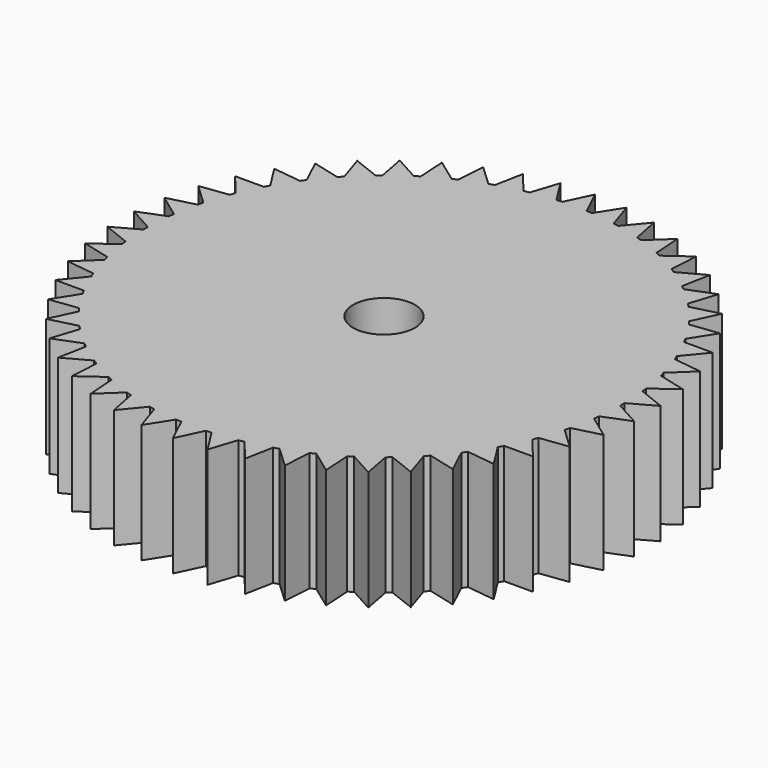
from build123d import *

# Parameters (mm, degrees)
F0_R     = 3.302
F1_DEPTH = 12.7


with BuildPart() as f1:
    # F0 (on Top) → F1 (new body)
    with BuildSketch(Plane.XY):
        with BuildLine():
            Line((23.74411, -15.06847), (22.115968, -12.491756))
            ThreePointArc((22.115968, -12.491756), (21.445929, -13.610001), (20.7194, -14.692395))
            Line((20.7194, -14.692395), (23.74411, -15.06847))
        make_face()
        with BuildLine():
            Line((19.250769, -20.499987), (18.31458, -17.599322))
            ThreePointArc((18.31458, -17.599322), (17.387496, -18.515803), (16.414612, -19.383511))
            Line((16.414612, -19.383511), (19.250769, -20.499987))
        make_face()
        with BuildLine():
            Line((-26.745521, -8.690147), (-23.722312, -9.078101))
            ThreePointArc((-23.722312, -9.078101), (-24.156836, -7.849032), (-24.527727, -6.599287))
            Line((-24.527727, -6.599287), (-26.745521, -8.690147))
        make_face()
        with BuildLine():
            Line((21.668301, -17.925577), (20.375945, -15.165121))
            ThreePointArc((20.375945, -15.165121), (19.571036, -16.190569), (18.714576, -17.17337))
            Line((18.714576, -17.17337), (21.668301, -17.925577))
        make_face()
        with BuildLine():
            Line((-25.445461, -11.973725), (-22.397467, -11.979711))
            ThreePointArc((-22.397467, -11.979711), (-22.982607, -10.814794), (-23.507209, -9.621389))
            Line((-23.507209, -9.621389), (-25.445461, -11.973725))
        make_face()
        with BuildLine():
            ThreePointArc((-15.964385, 19.755972), (-14.929745, 20.549032), (-13.85578, 21.287963))
            Line((-13.85578, 21.287963), (-16.529641, 22.751099))
            Line((-16.529641, 22.751099), (-15.964385, 19.755972))
        make_face()
        with BuildLine():
            Line((-13.547831, -24.643414), (-11.078433, -22.856691))
            ThreePointArc((-11.078433, -22.856691), (-12.236543, -22.25819), (-13.362421, -21.601058))
            Line((-13.362421, -21.601058), (-13.547831, -24.643414))
        make_face()
        with BuildLine():
            ThreePointArc((25.39832, -0.292161), (25.39958, -0.146083), (25.4, 0))
            ThreePointArc((25.4, 0), (25.39958, 0.146083), (25.39832, 0.292161))
            ThreePointArc((25.39832, 0.292161), (25.349879, 1.594879), (25.234664, 2.893397))
            ThreePointArc((25.234664, 2.893397), (25.199713, 3.183464), (25.161429, 3.47311))
            ThreePointArc((25.161429, 3.47311), (24.950096, 4.759485), (24.673042, 6.033323))
            ThreePointArc((24.673042, 6.033323), (24.602012, 6.316723), (24.527727, 6.599287))
            ThreePointArc((24.527727, 6.599287), (24.156836, 7.849032), (23.722312, 9.078101))
            ThreePointArc((23.722312, 9.078101), (23.616323, 9.350364), (23.507209, 9.621389))
            ThreePointArc((23.507209, 9.621389), (22.982607, 10.814794), (22.397467, 11.979711))
            ThreePointArc((22.397467, 11.979711), (22.25819, 12.236543), (22.115968, 12.491756))
            ThreePointArc((22.115968, 12.491756), (21.445929, 13.610001), (20.7194, 14.692395))
            ThreePointArc((20.7194, 14.692395), (20.549032, 14.929745), (20.375945, 15.165121))
            ThreePointArc((20.375945, 15.165121), (19.571036, 16.190569), (18.714576, 17.17337))
            ThreePointArc((18.714576, 17.17337), (18.515803, 17.387496), (18.31458, 17.599322))
            ThreePointArc((18.31458, 17.599322), (17.387496, 18.515803), (16.414612, 19.383511))
            ThreePointArc((16.414612, 19.383511), (16.190569, 19.571036), (15.964385, 19.755972))
            ThreePointArc((15.964385, 19.755972), (14.929745, 20.549032), (13.85578, 21.287963))
            ThreePointArc((13.85578, 21.287963), (13.610001, 21.445929), (13.362421, 21.601058))
            ThreePointArc((13.362421, 21.601058), (12.236543, 22.25819), (11.078433, 22.856691))
            ThreePointArc((11.078433, 22.856691), (10.814794, 22.982607), (10.549724, 23.105483))
            ThreePointArc((10.549724, 23.105483), (9.350364, 23.616323), (8.126374, 24.064955))
            ThreePointArc((8.126374, 24.064955), (7.849032, 24.156836), (7.570651, 24.24552))
            ThreePointArc((7.570651, 24.24552), (6.316723, 24.602012), (5.046156, 24.8937))
            ThreePointArc((5.046156, 24.8937), (4.759485, 24.950096), (4.472185, 25.003191))
            ThreePointArc((4.472185, 25.003191), (3.183464, 25.199713), (1.886358, 25.329857))
            ThreePointArc((1.886358, 25.329857), (1.594879, 25.349879), (1.30319, 25.366547))
            ThreePointArc((1.30319, 25.366547), (0, 25.4), (-1.30319, 25.366547))
            ThreePointArc((-1.30319, 25.366547), (-1.594879, 25.349879), (-1.886358, 25.329857))
            ThreePointArc((-1.886358, 25.329857), (-3.183464, 25.199713), (-4.472185, 25.003191))
            ThreePointArc((-4.472185, 25.003191), (-4.759485, 24.950096), (-5.046156, 24.8937))
            ThreePointArc((-5.046156, 24.8937), (-6.316723, 24.602012), (-7.570651, 24.24552))
            ThreePointArc((-7.570651, 24.24552), (-7.849032, 24.156836), (-8.126374, 24.064955))
            ThreePointArc((-8.126374, 24.064955), (-9.350364, 23.616323), (-10.549724, 23.105483))
            ThreePointArc((-10.549724, 23.105483), (-10.814794, 22.982607), (-11.078433, 22.856691))
            ThreePointArc((-11.078433, 22.856691), (-12.236543, 22.25819), (-13.362421, 21.601058))
            ThreePointArc((-13.362421, 21.601058), (-13.610001, 21.445929), (-13.85578, 21.287963))
            ThreePointArc((-13.85578, 21.287963), (-14.929745, 20.549032), (-15.964385, 19.755972))
            ThreePointArc((-15.964385, 19.755972), (-16.190569, 19.571036), (-16.414612, 19.383511))
            ThreePointArc((-16.414612, 19.383511), (-17.387496, 18.515803), (-18.31458, 17.599322))
            ThreePointArc((-18.31458, 17.599322), (-18.515803, 17.387496), (-18.714576, 17.17337))
            ThreePointArc((-18.714576, 17.17337), (-19.571036, 16.190569), (-20.375945, 15.165121))
            ThreePointArc((-20.375945, 15.165121), (-20.549032, 14.929745), (-20.7194, 14.692395))
            ThreePointArc((-20.7194, 14.692395), (-21.445929, 13.610001), (-22.115968, 12.491756))
            ThreePointArc((-22.115968, 12.491756), (-22.25819, 12.236543), (-22.397467, 11.979711))
            ThreePointArc((-22.397467, 11.979711), (-22.982607, 10.814794), (-23.507209, 9.621389))
            ThreePointArc((-23.507209, 9.621389), (-23.616323, 9.350364), (-23.722312, 9.078101))
            ThreePointArc((-23.722312, 9.078101), (-24.156836, 7.849032), (-24.527727, 6.599287))
            ThreePointArc((-24.527727, 6.599287), (-24.602012, 6.316723), (-24.673042, 6.033323))
            ThreePointArc((-24.673042, 6.033323), (-24.950096, 4.759485), (-25.161429, 3.47311))
            ThreePointArc((-25.161429, 3.47311), (-25.199713, 3.183464), (-25.234664, 2.893397))
            ThreePointArc((-25.234664, 2.893397), (-25.349879, 1.594879), (-25.39832, 0.292161))
            ThreePointArc((-25.39832, 0.292161), (-25.4, 0), (-25.39832, -0.292161))
            ThreePointArc((-25.39832, -0.292161), (-25.349879, -1.594879), (-25.234664, -2.893397))
            ThreePointArc((-25.234664, -2.893397), (-25.199713, -3.183464), (-25.161429, -3.47311))
            ThreePointArc((-25.161429, -3.47311), (-24.950096, -4.759485), (-24.673042, -6.033323))
            ThreePointArc((-24.673042, -6.033323), (-24.602012, -6.316723), (-24.527727, -6.599287))
            ThreePointArc((-24.527727, -6.599287), (-24.156836, -7.849032), (-23.722312, -9.078101))
            ThreePointArc((-23.722312, -9.078101), (-23.616323, -9.350364), (-23.507209, -9.621389))
            ThreePointArc((-23.507209, -9.621389), (-22.982607, -10.814794), (-22.397467, -11.979711))
            ThreePointArc((-22.397467, -11.979711), (-22.25819, -12.236543), (-22.115968, -12.491756))
            ThreePointArc((-22.115968, -12.491756), (-21.445929, -13.610001), (-20.7194, -14.692395))
            ThreePointArc((-20.7194, -14.692395), (-20.549032, -14.929745), (-20.375945, -15.165121))
            ThreePointArc((-20.375945, -15.165121), (-19.571036, -16.190569), (-18.714576, -17.17337))
            ThreePointArc((-18.714576, -17.17337), (-18.515803, -17.387496), (-18.31458, -17.599322))
            ThreePointArc((-18.31458, -17.599322), (-17.387496, -18.515803), (-16.414612, -19.383511))
            ThreePointArc((-16.414612, -19.383511), (-16.190569, -19.571036), (-15.964385, -19.755972))
            ThreePointArc((-15.964385, -19.755972), (-14.929745, -20.549032), (-13.85578, -21.287963))
            ThreePointArc((-13.85578, -21.287963), (-13.610001, -21.445929), (-13.362421, -21.601058))
            ThreePointArc((-13.362421, -21.601058), (-12.236543, -22.25819), (-11.078433, -22.856691))
            ThreePointArc((-11.078433, -22.856691), (-10.814794, -22.982607), (-10.549724, -23.105483))
            ThreePointArc((-10.549724, -23.105483), (-9.350364, -23.616323), (-8.126374, -24.064955))
            ThreePointArc((-8.126374, -24.064955), (-7.849032, -24.156836), (-7.570651, -24.24552))
            ThreePointArc((-7.570651, -24.24552), (-6.316723, -24.602012), (-5.046156, -24.8937))
            ThreePointArc((-5.046156, -24.8937), (-4.759485, -24.950096), (-4.472185, -25.003191))
            ThreePointArc((-4.472185, -25.003191), (-3.183464, -25.199713), (-1.886358, -25.329857))
            ThreePointArc((-1.886358, -25.329857), (-1.594879, -25.349879), (-1.30319, -25.366547))
            ThreePointArc((-1.30319, -25.366547), (0, -25.4), (1.30319, -25.366547))
            ThreePointArc((1.30319, -25.366547), (1.594879, -25.349879), (1.886358, -25.329857))
            ThreePointArc((1.886358, -25.329857), (3.183464, -25.199713), (4.472185, -25.003191))
            ThreePointArc((4.472185, -25.003191), (4.759485, -24.950096), (5.046156, -24.8937))
            ThreePointArc((5.046156, -24.8937), (6.316723, -24.602012), (7.570651, -24.24552))
            ThreePointArc((7.570651, -24.24552), (7.849032, -24.156836), (8.126374, -24.064955))
            ThreePointArc((8.126374, -24.064955), (9.350364, -23.616323), (10.549724, -23.105483))
            ThreePointArc((10.549724, -23.105483), (10.814794, -22.982607), (11.078433, -22.856691))
            ThreePointArc((11.078433, -22.856691), (12.236543, -22.25819), (13.362421, -21.601058))
            ThreePointArc((13.362421, -21.601058), (13.610001, -21.445929), (13.85578, -21.287963))
            ThreePointArc((13.85578, -21.287963), (14.929745, -20.549032), (15.964385, -19.755972))
            ThreePointArc((15.964385, -19.755972), (16.190569, -19.571036), (16.414612, -19.383511))
            ThreePointArc((16.414612, -19.383511), (17.387496, -18.515803), (18.31458, -17.599322))
            ThreePointArc((18.31458, -17.599322), (18.515803, -17.387496), (18.714576, -17.17337))
            ThreePointArc((18.714576, -17.17337), (19.571036, -16.190569), (20.375945, -15.165121))
            ThreePointArc((20.375945, -15.165121), (20.549032, -14.929745), (20.7194, -14.692395))
            ThreePointArc((20.7194, -14.692395), (21.445929, -13.610001), (22.115968, -12.491756))
            ThreePointArc((22.115968, -12.491756), (22.25819, -12.236543), (22.397467, -11.979711))
            ThreePointArc((22.397467, -11.979711), (22.982607, -10.814794), (23.507209, -9.621389))
            ThreePointArc((23.507209, -9.621389), (23.616323, -9.350364), (23.722312, -9.078101))
            ThreePointArc((23.722312, -9.078101), (24.156836, -7.849032), (24.527727, -6.599287))
            ThreePointArc((24.527727, -6.599287), (24.602012, -6.316723), (24.673042, -6.033323))
            ThreePointArc((24.673042, -6.033323), (24.950096, -4.759485), (25.161429, -3.47311))
            ThreePointArc((25.161429, -3.47311), (25.199713, -3.183464), (25.234664, -2.893397))
            ThreePointArc((25.234664, -2.893397), (25.349879, -1.594879), (25.39832, -0.292161))
        make_face()
        Circle(F0_R, mode=Mode.SUBTRACT)
        with BuildLine():
            Line((-6.993633, -27.238404), (-5.046156, -24.8937))
            ThreePointArc((-5.046156, -24.8937), (-6.316723, -24.602012), (-7.570651, -24.24552))
            Line((-7.570651, -24.24552), (-6.993633, -27.238404))
        make_face()
        with BuildLine():
            Line((-3.524609, -27.900156), (-1.886358, -25.329857))
            ThreePointArc((-1.886358, -25.329857), (-3.183464, -25.199713), (-4.472185, -25.003191))
            Line((-4.472185, -25.003191), (-3.524609, -27.900156))
        make_face()
        with BuildLine():
            ThreePointArc((-23.507209, 9.621389), (-22.982607, 10.814794), (-22.397467, 11.979711))
            Line((-22.397467, 11.979711), (-25.445461, 11.973725))
            Line((-25.445461, 11.973725), (-23.507209, 9.621389))
        make_face()
        with BuildLine():
            Line((3.524609, -27.900156), (4.472185, -25.003191))
            ThreePointArc((4.472185, -25.003191), (3.183464, -25.199713), (1.886358, -25.329857))
            Line((1.886358, -25.329857), (3.524609, -27.900156))
        make_face()
        with BuildLine():
            ThreePointArc((-24.527727, 6.599287), (-24.156836, 7.849032), (-23.722312, 9.078101))
            Line((-23.722312, 9.078101), (-26.745521, 8.690147))
            Line((-26.745521, 8.690147), (-24.527727, 6.599287))
        make_face()
        with BuildLine():
            ThreePointArc((-10.549724, 23.105483), (-9.350364, 23.616323), (-8.126374, 24.064955))
            Line((-8.126374, 24.064955), (-10.352364, 26.147086))
            Line((-10.352364, 26.147086), (-10.549724, 23.105483))
        make_face()
        with BuildLine():
            ThreePointArc((20.7194, 14.692395), (21.445929, 13.610001), (22.115968, 12.491756))
            Line((22.115968, 12.491756), (23.74411, 15.06847))
            Line((23.74411, 15.06847), (20.7194, 14.692395))
        make_face()
        with BuildLine():
            ThreePointArc((18.714576, 17.17337), (19.571036, 16.190569), (20.375945, 15.165121))
            Line((20.375945, 15.165121), (21.668301, 17.925577))
            Line((21.668301, 17.925577), (18.714576, 17.17337))
        make_face()
        with BuildLine():
            ThreePointArc((13.85578, 21.287963), (14.929745, 20.549032), (15.964385, 19.755972))
            Line((15.964385, 19.755972), (16.529641, 22.751099))
            Line((16.529641, 22.751099), (13.85578, 21.287963))
        make_face()
        with BuildLine():
            ThreePointArc((8.126374, 24.064955), (9.350364, 23.616323), (10.549724, 23.105483))
            Line((10.549724, 23.105483), (10.352364, 26.147086))
            Line((10.352364, 26.147086), (8.126374, 24.064955))
        make_face()
        with BuildLine():
            Line((6.993633, -27.238404), (7.570651, -24.24552))
            ThreePointArc((7.570651, -24.24552), (6.316723, -24.602012), (5.046156, -24.8937))
            Line((5.046156, -24.8937), (6.993633, -27.238404))
        make_face()
        with BuildLine():
            Line((-19.250769, -20.499987), (-16.414612, -19.383511))
            ThreePointArc((-16.414612, -19.383511), (-17.387496, -18.515803), (-18.31458, -17.599322))
            Line((-18.31458, -17.599322), (-19.250769, -20.499987))
        make_face()
        with BuildLine():
            Line((13.547831, -24.643414), (13.362421, -21.601058))
            ThreePointArc((13.362421, -21.601058), (12.236543, -22.25819), (11.078433, -22.856691))
            Line((11.078433, -22.856691), (13.547831, -24.643414))
        make_face()
        with BuildLine():
            Line((16.529641, -22.751099), (15.964385, -19.755972))
            ThreePointArc((15.964385, -19.755972), (14.929745, -20.549032), (13.85578, -21.287963))
            Line((13.85578, -21.287963), (16.529641, -22.751099))
        make_face()
        with BuildLine():
            Line((-27.623789, -5.26952), (-24.673042, -6.033323))
            ThreePointArc((-24.673042, -6.033323), (-24.950096, -4.759485), (-25.161429, -3.47311))
            Line((-25.161429, -3.47311), (-27.623789, -5.26952))
        make_face()
        with BuildLine():
            Line((-23.74411, -15.06847), (-20.7194, -14.692395))
            ThreePointArc((-20.7194, -14.692395), (-21.445929, -13.610001), (-22.115968, -12.491756))
            Line((-22.115968, -12.491756), (-23.74411, -15.06847))
        make_face()
        with BuildLine():
            Line((25.445461, -11.973725), (23.507209, -9.621389))
            ThreePointArc((23.507209, -9.621389), (22.982607, -10.814794), (22.397467, -11.979711))
            Line((22.397467, -11.979711), (25.445461, -11.973725))
        make_face()
        with BuildLine():
            Line((-21.668301, -17.925577), (-18.714576, -17.17337))
            ThreePointArc((-18.714576, -17.17337), (-19.571036, -16.190569), (-20.375945, -15.165121))
            Line((-20.375945, -15.165121), (-21.668301, -17.925577))
        make_face()
        with BuildLine():
            ThreePointArc((-13.362421, 21.601058), (-12.236543, 22.25819), (-11.078433, 22.856691))
            Line((-11.078433, 22.856691), (-13.547831, 24.643414))
            Line((-13.547831, 24.643414), (-13.362421, 21.601058))
        make_face()
        with BuildLine():
            Line((27.623789, -5.26952), (25.161429, -3.47311))
            ThreePointArc((25.161429, -3.47311), (24.950096, -4.759485), (24.673042, -6.033323))
            Line((24.673042, -6.033323), (27.623789, -5.26952))
        make_face()
        with BuildLine():
            Line((-16.529641, -22.751099), (-13.85578, -21.287963))
            ThreePointArc((-13.85578, -21.287963), (-14.929745, -20.549032), (-15.964385, -19.755972))
            Line((-15.964385, -19.755972), (-16.529641, -22.751099))
        make_face()
        with BuildLine():
            Line((28.066413, -1.765789), (25.39832, -0.292161))
            ThreePointArc((25.39832, -0.292161), (25.349879, -1.594879), (25.234664, -2.893397))
            Line((25.234664, -2.893397), (28.066413, -1.765789))
        make_face()
        with BuildLine():
            ThreePointArc((-18.31458, 17.599322), (-17.387496, 18.515803), (-16.414612, 19.383511))
            Line((-16.414612, 19.383511), (-19.250769, 20.499987))
            Line((-19.250769, 20.499987), (-18.31458, 17.599322))
        make_face()
        with BuildLine():
            Line((-10.352364, -26.147086), (-8.126374, -24.064955))
            ThreePointArc((-8.126374, -24.064955), (-9.350364, -23.616323), (-10.549724, -23.105483))
            Line((-10.549724, -23.105483), (-10.352364, -26.147086))
        make_face()
        with BuildLine():
            ThreePointArc((-20.375945, 15.165121), (-19.571036, 16.190569), (-18.714576, 17.17337))
            Line((-18.714576, 17.17337), (-21.668301, 17.925577))
            Line((-21.668301, 17.925577), (-20.375945, 15.165121))
        make_face()
        with BuildLine():
            ThreePointArc((-22.115968, 12.491756), (-21.445929, 13.610001), (-20.7194, 14.692395))
            Line((-20.7194, 14.692395), (-23.74411, 15.06847))
            Line((-23.74411, 15.06847), (-22.115968, 12.491756))
        make_face()
        with BuildLine():
            Line((0, -28.121905), (1.30319, -25.366547))
            ThreePointArc((1.30319, -25.366547), (0, -25.4), (-1.30319, -25.366547))
            Line((-1.30319, -25.366547), (0, -28.121905))
        make_face()
        with BuildLine():
            ThreePointArc((-4.472185, 25.003191), (-3.183464, 25.199713), (-1.886358, 25.329857))
            Line((-1.886358, 25.329857), (-3.524609, 27.900156))
            Line((-3.524609, 27.900156), (-4.472185, 25.003191))
        make_face()
        with BuildLine():
            ThreePointArc((-7.570651, 24.24552), (-6.316723, 24.602012), (-5.046156, 24.8937))
            Line((-5.046156, 24.8937), (-6.993633, 27.238404))
            Line((-6.993633, 27.238404), (-7.570651, 24.24552))
        make_face()
        with BuildLine():
            ThreePointArc((25.234664, 2.893397), (25.349879, 1.594879), (25.39832, 0.292161))
            Line((25.39832, 0.292161), (28.066413, 1.765789))
            Line((28.066413, 1.765789), (25.234664, 2.893397))
        make_face()
        with BuildLine():
            ThreePointArc((24.673042, 6.033323), (24.950096, 4.759485), (25.161429, 3.47311))
            Line((25.161429, 3.47311), (27.623789, 5.26952))
            Line((27.623789, 5.26952), (24.673042, 6.033323))
        make_face()
        with BuildLine():
            ThreePointArc((23.722312, 9.078101), (24.156836, 7.849032), (24.527727, 6.599287))
            Line((24.527727, 6.599287), (26.745521, 8.690147))
            Line((26.745521, 8.690147), (23.722312, 9.078101))
        make_face()
        with BuildLine():
            ThreePointArc((22.397467, 11.979711), (22.982607, 10.814794), (23.507209, 9.621389))
            Line((23.507209, 9.621389), (25.445461, 11.973725))
            Line((25.445461, 11.973725), (22.397467, 11.979711))
        make_face()
        with BuildLine():
            ThreePointArc((16.414612, 19.383511), (17.387496, 18.515803), (18.31458, 17.599322))
            Line((18.31458, 17.599322), (19.250769, 20.499987))
            Line((19.250769, 20.499987), (16.414612, 19.383511))
        make_face()
        with BuildLine():
            ThreePointArc((11.078433, 22.856691), (12.236543, 22.25819), (13.362421, 21.601058))
            Line((13.362421, 21.601058), (13.547831, 24.643414))
            Line((13.547831, 24.643414), (11.078433, 22.856691))
        make_face()
        with BuildLine():
            ThreePointArc((5.046156, 24.8937), (6.316723, 24.602012), (7.570651, 24.24552))
            Line((7.570651, 24.24552), (6.993633, 27.238404))
            Line((6.993633, 27.238404), (5.046156, 24.8937))
        make_face()
        with BuildLine():
            ThreePointArc((1.886358, 25.329857), (3.183464, 25.199713), (4.472185, 25.003191))
            Line((4.472185, 25.003191), (3.524609, 27.900156))
            Line((3.524609, 27.900156), (1.886358, 25.329857))
        make_face()
        with BuildLine():
            ThreePointArc((-1.30319, 25.366547), (0, 25.4), (1.30319, 25.366547))
            Line((1.30319, 25.366547), (0, 28.121905))
            Line((0, 28.121905), (-1.30319, 25.366547))
        make_face()
        with BuildLine():
            ThreePointArc((-25.161429, 3.47311), (-24.950096, 4.759485), (-24.673042, 6.033323))
            Line((-24.673042, 6.033323), (-27.623789, 5.26952))
            Line((-27.623789, 5.26952), (-25.161429, 3.47311))
        make_face()
        with BuildLine():
            Line((10.352364, -26.147086), (10.549724, -23.105483))
            ThreePointArc((10.549724, -23.105483), (9.350364, -23.616323), (8.126374, -24.064955))
            Line((8.126374, -24.064955), (10.352364, -26.147086))
        make_face()
        with BuildLine():
            ThreePointArc((-25.39832, 0.292161), (-25.349879, 1.594879), (-25.234664, 2.893397))
            Line((-25.234664, 2.893397), (-28.066413, 1.765789))
            Line((-28.066413, 1.765789), (-25.39832, 0.292161))
        make_face()
        with BuildLine():
            Line((-28.066413, -1.765789), (-25.234664, -2.893397))
            ThreePointArc((-25.234664, -2.893397), (-25.349879, -1.594879), (-25.39832, -0.292161))
            Line((-25.39832, -0.292161), (-28.066413, -1.765789))
        make_face()
        with BuildLine():
            Line((26.745521, -8.690147), (24.527727, -6.599287))
            ThreePointArc((24.527727, -6.599287), (24.156836, -7.849032), (23.722312, -9.078101))
            Line((23.722312, -9.078101), (26.745521, -8.690147))
        make_face()
    extrude(amount=F1_DEPTH)


solid = f1.part
